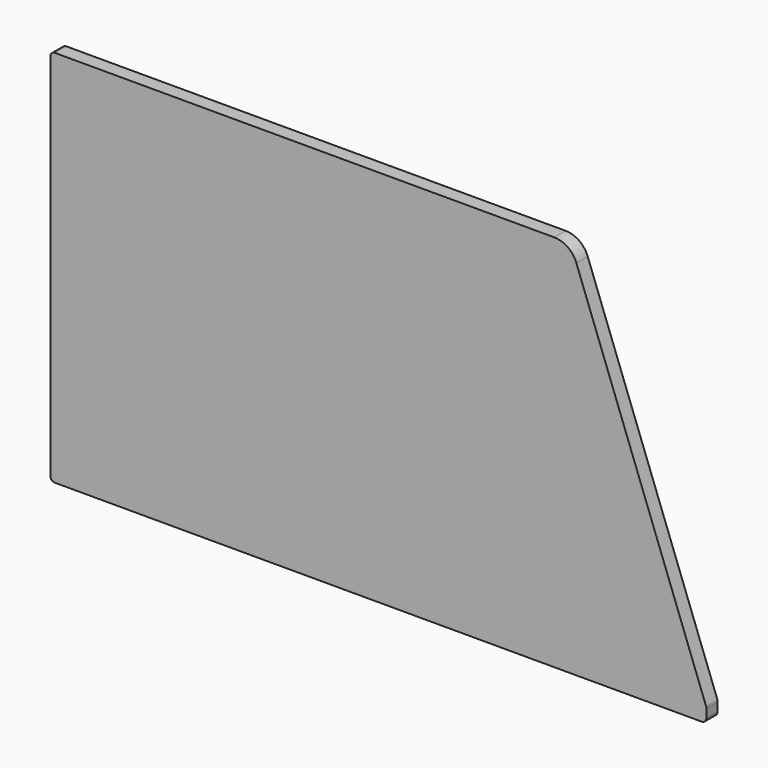
from build123d import *

# Parameters (mm, degrees)
F1_DEPTH = 1.5
F2_R     = 1


with BuildPart() as f1:
    # F0 (on Front) → F1 (new body, symmetric)
    with BuildSketch(Plane.XZ):
        with BuildLine():
            Line((0, 80), (0, 0))
            Line((0, 0), (138.7, 0))
            Line((138.7, 0), (138.7, 3))
            Line((138.7, 3), (111.212751, 76.746278))
            ThreePointArc((111.212751, 76.746278), (109.379684, 79.106787), (106.527613, 80))
            Line((106.527613, 80), (0, 80))
        make_face()
    extrude(amount=F1_DEPTH, both=True)

    # F2
    f2_edges = [f1.edges().sort_by_distance(p)[0] for p in [
        (138.7, 0, 0),
        (138.7, 0, 3),
        (0, 0, 80),
        (0, 0, 0),
    ]]
    fillet(f2_edges, radius=F2_R)


solid = f1.part
